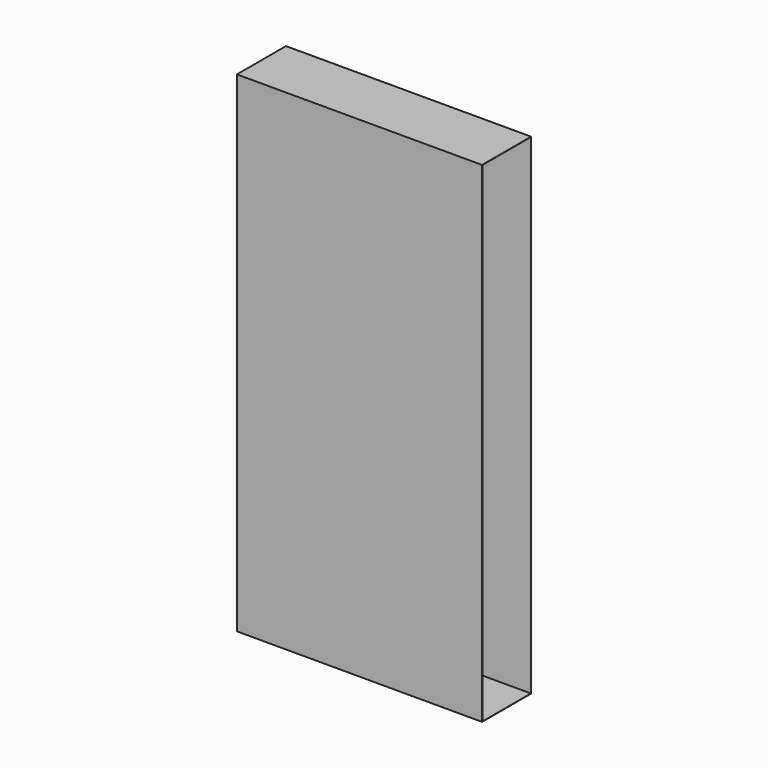
from build123d import *

# Parameters (mm, degrees)
F0_W     = 609.6
F0_H     = 381
F1_DEPTH = 19.05
F2_SIZE2 = 27.2352378905
F2_SIZE  = 12.7
F3_W     = 50.8
F3_H     = 889
F4_DEPTH = 25.4
F5_W     = 6.35
F5_H     = 50.8
F6_DEPTH = 25.4
F7_T     = -0.0254


with BuildPart() as f1:
    # F0 (on Top) → F1 (new body)
    with BuildSketch(Plane.XY):
        Rectangle(F0_W, F0_H)
    extrude(amount=F1_DEPTH)

    # F2
    f2_edges = [f1.edges().sort_by_distance(p)[0] for p in [
        (0, -190.5, 0),
        (304.8, 0, 0),
        (0, 190.5, 0),
        (-304.8, 0, 0),
    ]]
    chamfer(f2_edges, length=F2_SIZE, length2=F2_SIZE2)

    # F3 (on Right) → F4 (join, symmetric)
    with BuildSketch(Plane.YZ):
        Rectangle(F3_W, F3_H)
    extrude(amount=F4_DEPTH, both=True)

    # F5 (on face) → F6 (intersect)
    with BuildSketch(Plane.YZ.offset(25.4)):
        with Locations((9.525, 406.4)):
            Rectangle(F5_W, F5_H)
    extrude(amount=-F6_DEPTH, mode=Mode.INTERSECT)

    # F7
    f7_openings = [f1.faces().sort_by_distance(p)[0] for p in [
        (25.4, 9.525, 406.4),
    ]]
    offset(amount=F7_T, openings=f7_openings)


solid = f1.part
